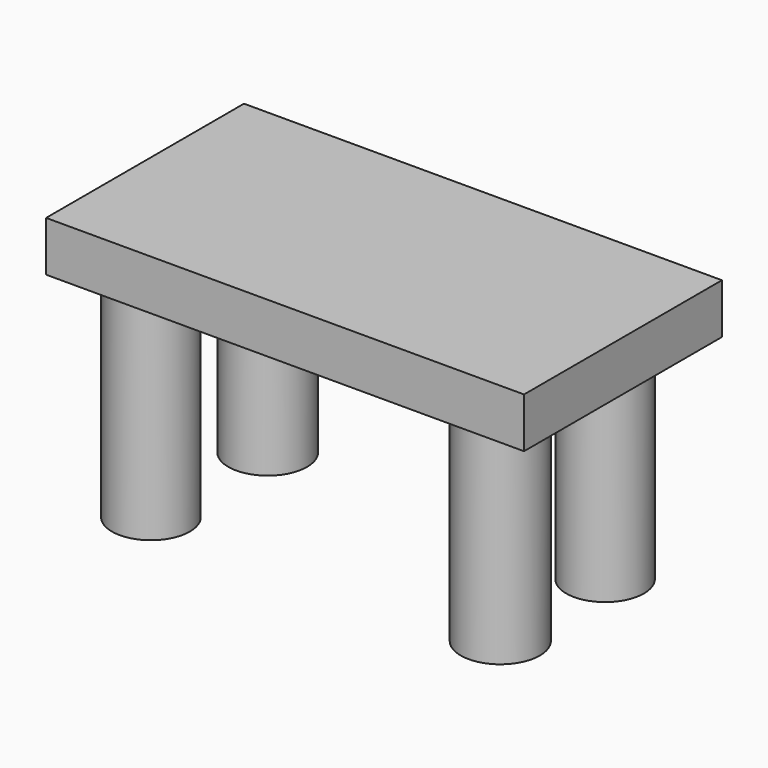
from build123d import *

# Parameters (mm, degrees)
F0_W     = 95.57727
F0_H     = 49.465432
F0_R     = 7.795039
F0_R_2   = 7.904483
F0_R_3   = 7.869825
F0_R_4   = 7.769952
F1_DEPTH = 10
F2_DEPTH = 42.4


with BuildPart() as f1:
    # F0 (on Top) → F1 (new body)
    with BuildSketch(Plane.XY):
        Rectangle(F0_W, F0_H)
        with Locations((-34.653738, -14.951406)):
            Circle(F0_R, mode=Mode.SUBTRACT)
        with Locations((34.094814, -13.554079)):
            Circle(F0_R_2, mode=Mode.SUBTRACT)
        with Locations((-34.094807, 13.55409)):
            Circle(F0_R_3, mode=Mode.SUBTRACT)
        with Locations((33.815347, 12.995158)):
            Circle(F0_R_4, mode=Mode.SUBTRACT)
        with Locations((-34.653738, -14.951406)):
            Circle(F0_R)
        with Locations((-34.094807, 13.55409)):
            Circle(F0_R_3)
        with Locations((34.094814, -13.554079)):
            Circle(F0_R_2)
        with Locations((33.815347, 12.995158)):
            Circle(F0_R_4)
    extrude(amount=F1_DEPTH)

    # F0 (on Top) → F2 (join)
    with BuildSketch(Plane.XY):
        with Locations((-34.653738, -14.951406)):
            Circle(F0_R)
        with Locations((34.094814, -13.554079)):
            Circle(F0_R_2)
        with Locations((33.815347, 12.995158)):
            Circle(F0_R_4)
        with Locations((-34.094807, 13.55409)):
            Circle(F0_R_3)
    extrude(amount=-F2_DEPTH)


solid = f1.part
